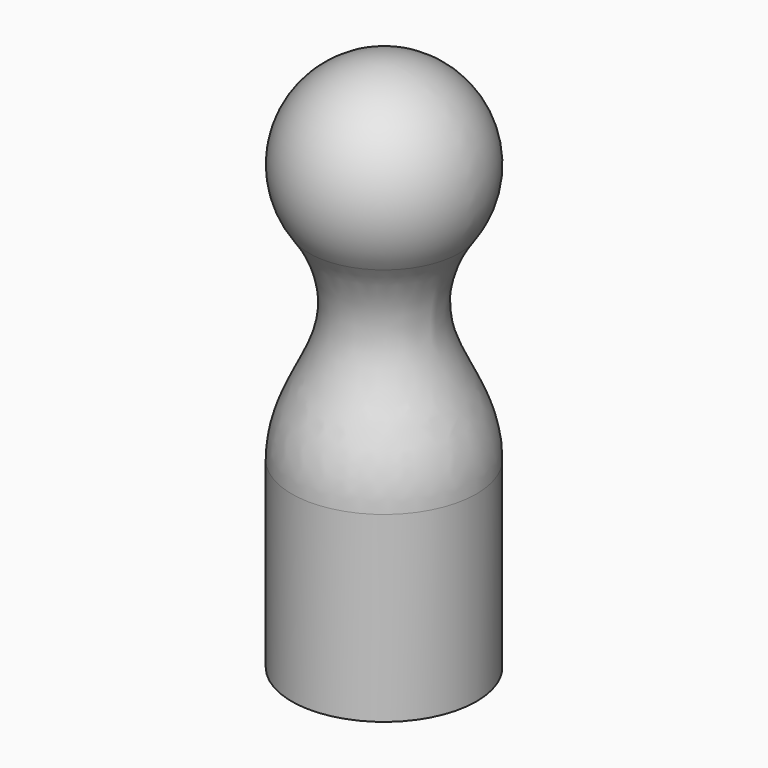
from build123d import *


with BuildPart() as f1:
    # F0 (on Front) → F1 (revolve)
    with BuildSketch(Plane.XZ):
        with BuildLine():
            Line((0, 48.35), (0, 0))
            Line((0, 0), (8.35, 0))
            Line((8.35, 0), (8.35, 16.5))
            add(Edge.make_bspline(
                [(8.35, 16.5), (8.35, 20.8323882095), (3.6031455836, 26.0235248627), (4.7815151159, 32.3416893585), (6.7836363562, 35.1312447395)],
                knots=[0, 0, 0, 0, 0.5246770794, 1, 1, 1, 1], degree=3))
            ThreePointArc((6.7836363562, 35.1312447395), (7.4288830394, 43.8123741668), (0, 48.35))
        make_face()
    revolve(axis=Axis((0, 0, 24.175), (0, 0, 1)))


solid = f1.part
